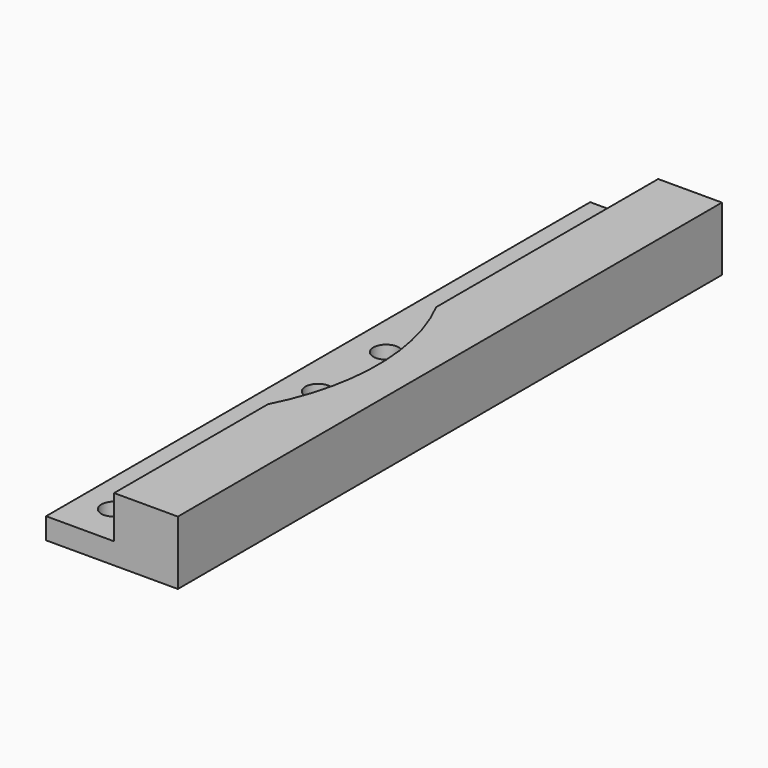
from build123d import *

# Parameters (mm, degrees)
SKETCH013_R  = 27
PAD008_DEPTH = 10
SKETCH011_W  = 8
SKETCH011_H  = 80
SKETCH011_R  = 1.5
PAD007_DEPTH = 2.5
SKETCH010_W  = 7.5
SKETCH010_H  = 80
PAD006_DEPTH = 7.5


with BuildPart() as pad008:
    # Sketch013 → Pad008 (new body)
    with BuildSketch(Plane(origin=(0, -40, 12.5), x_dir=(1, 0, 0), z_dir=(0, 0, 1))):
        Circle(SKETCH013_R)
    extrude(amount=PAD008_DEPTH)


with BuildPart() as pad007:
    # Sketch011 → Pad007 (new body)
    with BuildSketch(Plane.XY.offset(10)):
        with Locations((-4, -40)):
            Rectangle(SKETCH011_W, SKETCH011_H)
        with Locations((-4, -45)):
            Circle(SKETCH011_R, mode=Mode.SUBTRACT)
        with Locations((-4, -65)):
            Circle(SKETCH011_R, mode=Mode.SUBTRACT)
        with Locations((-4, -55)):
            Circle(SKETCH011_R, mode=Mode.SUBTRACT)
        with Locations((-4, -75)):
            Circle(SKETCH011_R, mode=Mode.SUBTRACT)
        with Locations((-4, -35)):
            Circle(SKETCH011_R, mode=Mode.SUBTRACT)
        with Locations((-4, -25)):
            Circle(SKETCH011_R, mode=Mode.SUBTRACT)
        with Locations((-4, -15)):
            Circle(SKETCH011_R, mode=Mode.SUBTRACT)
        with Locations((-4, -5)):
            Circle(SKETCH011_R, mode=Mode.SUBTRACT)
    extrude(amount=PAD007_DEPTH)


with BuildPart() as cut002:
    # Sketch010 → Pad006 (new body)
    with BuildSketch(Plane.XY.offset(10)):
        with Locations((3.75, -40)):
            Rectangle(SKETCH010_W, SKETCH010_H)
    extrude(amount=PAD006_DEPTH)

    # Fusion003: union Pad007
    add(pad007.part)


with BuildPart() as cut002_1:
    # Fusion003 placement: moved
    add(cut002.part.moved(Location((24, 5, 0))))

    # Cut002: cut Pad008
    add(pad008.part, mode=Mode.SUBTRACT)


solid = cut002_1.part
